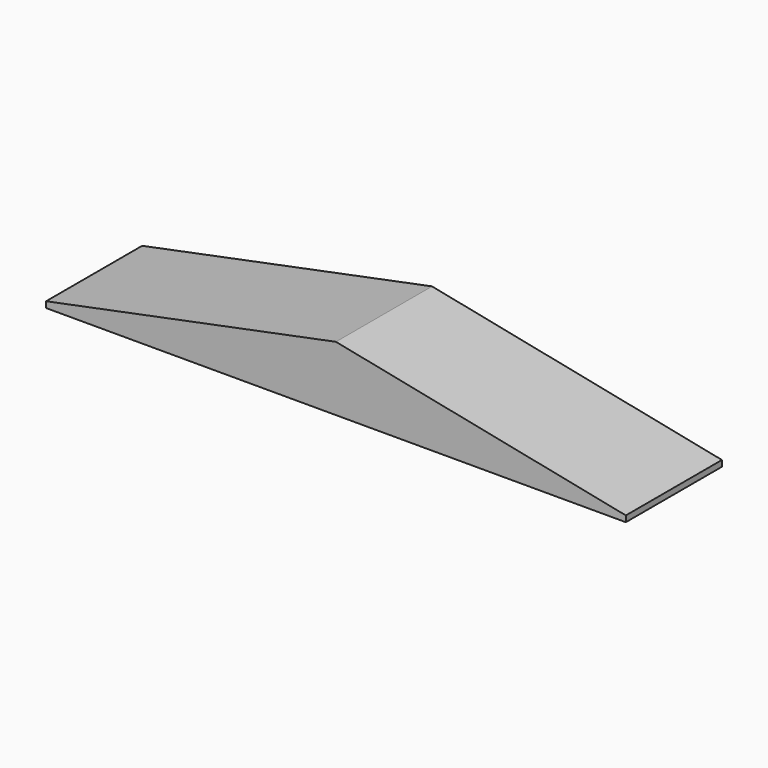
from build123d import *

# Parameters (mm, degrees)
F1_DEPTH = 800
F2_T     = -12


with BuildPart() as f1:
    # F0 (on Front) → F1 (new body)
    with BuildSketch(Plane.XZ):
        Polygon((63.840696, -442.045934), (63.840696, -12.045934), (-1867.169402, -402.045934), (-1867.169402, -442.045934), align=None)
        Polygon((1994.850794, -402.045934), (63.840696, -12.045934), (63.840696, -442.045934), (1994.850794, -442.045934), align=None)
    extrude(amount=F1_DEPTH)

    # F2
    f2_openings = [f1.faces().sort_by_distance(p)[0] for p in [
        (63.840696, -400, -442.045934),
    ]]
    offset(amount=F2_T, openings=f2_openings)


solid = f1.part
